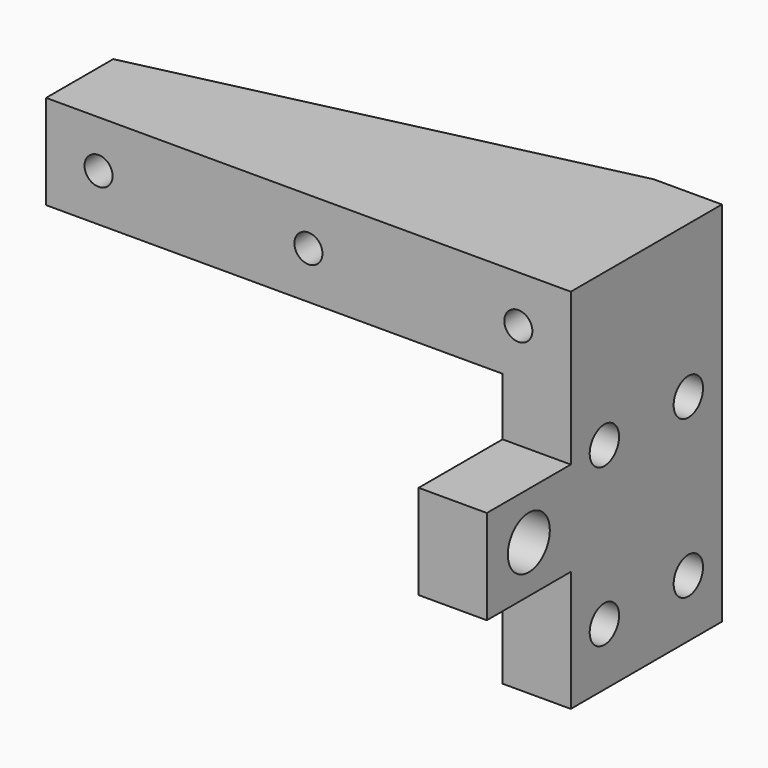
from build123d import *

# Parameters (mm, degrees)
SKETCH018_W          = 50
SKETCH018_H          = 18
PAD011_DEPTH         = 4.5
SKETCH019_R          = 1.3375
POCKET006_DEPTH      = 8
POCKET007_DEPTH      = 9.001
SKETCH021_W          = 6.5
SKETCH021_H          = 18
PAD012_DEPTH         = 26
SKETCH022_R          = 1.75
POCKET008_DEPTH      = 0.001
POCKET008_DEPTH_BACK = 50.001
SKETCH023_R          = 3
POCKET009_DEPTH      = 5
SKETCH024_W          = 10
SKETCH024_H          = 9
SKETCH024_R          = 2.5
PAD013_DEPTH         = 6.5


with BuildPart() as part:
    # Sketch018 → Pad011 (new body, symmetric)
    with BuildSketch(Plane.XY):
        with Locations((25, 9)):
            Rectangle(SKETCH018_W, SKETCH018_H)
    extrude(amount=PAD011_DEPTH, both=True)

    # Sketch019 → Pocket006 (cut)
    with BuildSketch(Plane.XZ):
        with Locations((5, 0)):
            Circle(SKETCH019_R)
        with Locations((25, 0)):
            Circle(SKETCH019_R)
        with Locations((45, 0)):
            Circle(SKETCH019_R)
    extrude(amount=-POCKET006_DEPTH, mode=Mode.SUBTRACT)

    # Sketch020 (on Face4 of Pocket006) → Pocket007 (cut, through all)
    with BuildSketch(Plane(origin=(0, 0, -4.5), x_dir=(1, 0, 0), z_dir=(0, 0, -1))):
        Polygon((0, -8), (43.5, -18), (0, -18), align=None)
    extrude(amount=-POCKET007_DEPTH, mode=Mode.SUBTRACT)

    # Sketch021 (on Face4 of Pocket007) → Pad012 (join)
    with BuildSketch(Plane.XY.offset(-4.5)):
        with Locations((46.75, 9)):
            Rectangle(SKETCH021_W, SKETCH021_H)
    extrude(amount=-PAD012_DEPTH)

    # Sketch022 → Pocket008 (cut, two sides)
    with BuildSketch(Plane.YZ) as pocket008_sk:
        with Locations((4, -25)):
            Circle(SKETCH022_R)
        with Locations((4, -10)):
            Circle(SKETCH022_R)
        with Locations((14, -10)):
            Circle(SKETCH022_R)
        with Locations((14, -25)):
            Circle(SKETCH022_R)
    extrude(amount=-POCKET008_DEPTH, mode=Mode.SUBTRACT)
    extrude(pocket008_sk.sketch, amount=POCKET008_DEPTH_BACK, mode=Mode.SUBTRACT)

    # Sketch023 → Pocket009 (cut, symmetric)
    with BuildSketch(Plane.YZ.offset(32)):
        with Locations((4, -10)):
            Circle(SKETCH023_R)
        with Locations((14, -10)):
            Circle(SKETCH023_R)
        with Locations((14, -25)):
            Circle(SKETCH023_R)
        with Locations((4, -25)):
            Circle(SKETCH023_R)
    extrude(amount=POCKET009_DEPTH, both=True, mode=Mode.SUBTRACT)

    # Sketch024 (on Face7 of Pocket009) → Pad013 (join)
    with BuildSketch(Plane.YZ.offset(50)):
        with Locations((-5, -14.5)):
            Rectangle(SKETCH024_W, SKETCH024_H)
        with Locations((-5, -14.5)):
            Circle(SKETCH024_R, mode=Mode.SUBTRACT)
    extrude(amount=-PAD013_DEPTH)


with BuildPart() as part_1:
    # Body005 placement: moved
    add(part.part.moved(Location((75, 6.5, 0))))


solid = part_1.part
